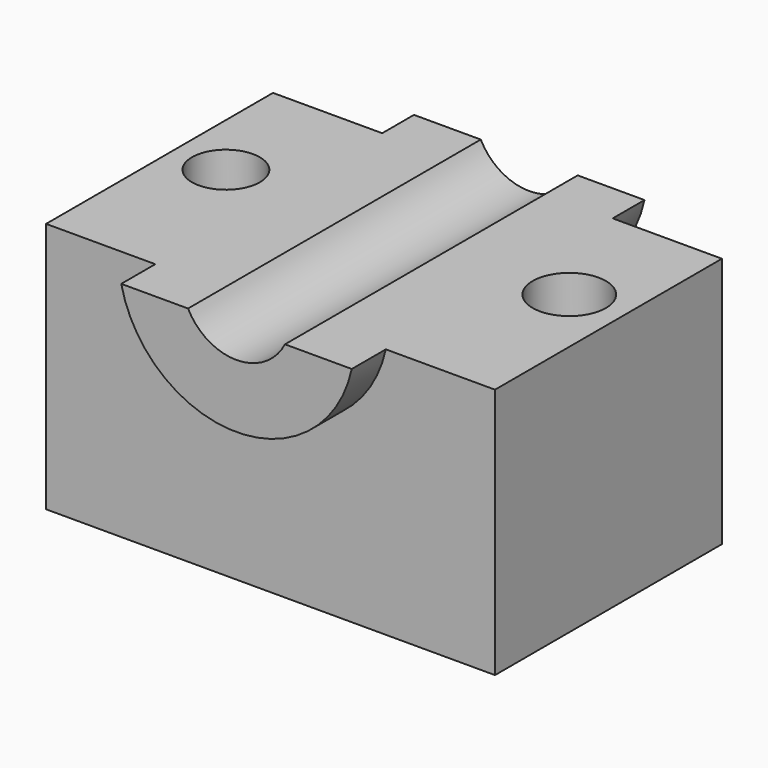
from build123d import *

# Parameters (mm, degrees)
F0_W          = 120.6022500992
F0_H          = 73.8097429276
F1_DEPTH      = 76.2
F2_R          = 31.6774975882
F3_DEPTH      = 86.868
F3_DEPTH_BACK = 11.43
F4_W          = 119.1478464752
F4_H          = 40.1731412858
F5_DEPTH      = 60.3021250496
F5_DEPTH_BACK = 60.3021250496
F6_R          = 14.6367961648
F7_DEPTH      = 86.869
F7_DEPTH_BACK = 25.4
F8_R          = 9.1115926715
F8_R_2        = 9.8364729175
F9_DEPTH      = 30.6065564433
F9_DEPTH_BACK = 36.9058714638


with BuildPart() as f1:
    # F0 (on Front) → F1 (new body)
    with BuildSketch(Plane.XZ):
        Rectangle(F0_W, F0_H)
    extrude(amount=-F1_DEPTH)

    # F2 (on Front) → F3 (join, two sides)
    with BuildSketch(Plane.XZ) as f3_sk:
        with Locations((0, 37.2918173671)):
            Circle(F2_R)
    extrude(amount=-F3_DEPTH)
    extrude(f3_sk.sketch, amount=F3_DEPTH_BACK)

    # F4 (on Right) → F5 (cut, two sides)
    with BuildSketch(Plane.YZ) as f5_sk:
        with Locations((41.5653018281, 50.6921270862)):
            Rectangle(F4_W, F4_H)
    extrude(amount=-F5_DEPTH, mode=Mode.SUBTRACT)
    extrude(f5_sk.sketch, amount=F5_DEPTH_BACK, mode=Mode.SUBTRACT)

    # F6 (on Front) → F7 (cut, two sides)
    with BuildSketch(Plane.XZ) as f7_sk:
        with Locations((0, 37.2918173671)):
            Circle(F6_R)
    extrude(amount=-F7_DEPTH, mode=Mode.SUBTRACT)
    extrude(f7_sk.sketch, amount=F7_DEPTH_BACK, mode=Mode.SUBTRACT)

    # F8 (on Top) → F9 (cut, two sides)
    with BuildSketch(Plane.XY) as f9_sk:
        with Locations((-46.2026000023, 42.7655205131)):
            Circle(F8_R)
        with Locations((45.4613789916, 43.5067377985)):
            Circle(F8_R_2)
    extrude(amount=F9_DEPTH, mode=Mode.SUBTRACT)
    extrude(f9_sk.sketch, amount=-F9_DEPTH_BACK, mode=Mode.SUBTRACT)


solid = f1.part
